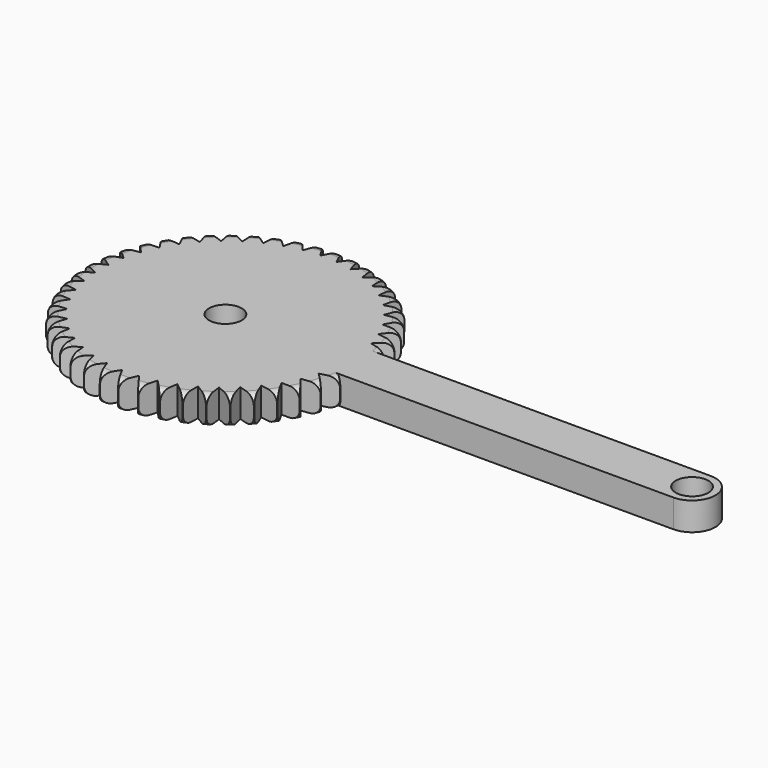
from build123d import *

# Parameters (mm, degrees)
F0_R     = 15
F1_DEPTH = 3
F2_R     = 1
F4_DEPTH = 3
F5_R     = 1.75
F6_DEPTH = 3
F7_R     = 1.75
F8_DEPTH = 3.0010001


with BuildPart() as f1:
    # F0 (on Top) → F1 (new body)
    with BuildSketch(Plane.XY):
        Circle(F0_R)
    extrude(amount=F1_DEPTH)

    # F2
    f2_edges = [f1.edges().sort_by_distance(p)[0] for p in [
        (-15, 0, 3),
        (-15, 0, 0),
    ]]
    fillet(f2_edges, radius=F2_R)

    # F3 (on face) → F4 (cut)
    with BuildSketch(Plane.XY.offset(3)):
        Polygon((15, -1), (15, 1), (13.2679491924, 0), align=None)
        Polygon((14.7328753669, 2.9903818188), (13.1495657586, 1.7684445519), (14.9994492777, 1.0082268425), align=None)
        Polygon((14.2028422239, 4.9274002031), (12.7965280123, 3.5053311689), (14.7312330277, 2.998461853), align=None)
        Polygon((13.419359025, 6.7764890141), (12.2151359204, 5.1796650681), (14.2001375753, 4.9351892408), align=None)
        Polygon((12.3964070463, 8.5046512181), (11.4157644387, 6.7615677215), (13.4156403315, 6.7838480596), align=None)
        Polygon((11.1522408902, 10.0810477197), (10.4126783701, 8.2228100387), (12.3917406681, 8.5114489491), align=None)
        Polygon((9.7090627312, 11.4775476858), (9.2237778094, 9.537316116), (11.146710099, 10.0871628305), align=None)
        Polygon((8.0926261178, 12.6692305416), (7.870278715, 10.6816285612), (9.7027662241, 11.4828710522), align=None)
        Polygon((6.3317763996, 13.6348306783), (6.3763343106, 11.6353270918), (8.085676256, 12.6736671679), align=None)
        Polygon((4.4579359815, 14.3571169385), (4.7686040694, 12.3813929347), (6.3242972036, 13.6383013928), align=None)
        Polygon((2.5045435902, 14.8232001067), (3.0757779755, 12.9065125273), (4.4500609178, 14.3595598062), align=None)
        Polygon((0.5064575593, 15.024762918), (1.3280645508, 13.2013150982), (2.4964131894, 14.8245715347), align=None)
        Polygon((-1.5006662188, 14.9582084789), (-0.4433482172, 13.2605398884), (0.4982169086, 15.025038433), align=None)
        Polygon((-3.4810105727, 14.6247244553), (-2.2068494258, 13.0831300301), (-1.5088700648, 14.9573831644), align=None)
        Polygon((-5.3992362105, 14.0302618772), (-3.9309693541, 12.6722514065), (-3.4890312161, 14.622813039), align=None)
        Polygon((-7.2211123502, 13.1854289436), (-5.5849410412, 12.0352361563), (-5.4069305227, 14.0272984684), align=None)
        Polygon((-8.9141275689, 12.1053017181), (-7.1392493231, 11.1834518319), (-7.228343026, 13.1814664244), align=None)
        Polygon((-10.4480699699, 10.8091550967), (-8.5661575317, 10.1320985445), (-8.9207655768, 12.1004107998), align=None)
        Polygon((-11.7955663149, 9.3201188464), (-9.8402024562, 8.8999377185), (-10.4539968546, 10.8034230577), align=None)
        Polygon((-12.9325704995, 7.6647648546), (-10.9386487347, 7.5089572932), (-11.8006763108, 9.3136479753), align=None)
        Polygon((-13.8387926571, 5.8726329524), (-11.8418945675, 5.983979347), (-12.9367724187, 7.6576706241), align=None)
        Polygon((-14.498061232, 3.975703776), (-12.5338215111, 4.3522171477), (-13.8420115163, 5.8650419592), align=None)
        Polygon((-14.8986115607, 2.0078280715), (-13.002082113, 2.6427895302), (-14.5002395904, 3.9677514816), align=None)
        Polygon((-15.0332958131, 0.0041226276), (-13.2383202515, 0.886201271), (-14.8997105456, 1.9996563848), align=None)
        Polygon((-14.8997105456, -1.9996563848), (-13.2383202515, -0.886201271), (-15.0332958131, -0.0041226276), align=None)
        Polygon((-14.5002395904, -3.9677514816), (-13.002082113, -2.6427895302), (-14.8986115607, -2.0078280715), align=None)
        Polygon((-13.8420115163, -5.8650419592), (-12.5338215111, -4.3522171477), (-14.498061232, -3.975703776), align=None)
        Polygon((-12.9367724187, -7.6576706241), (-11.8418945675, -5.983979347), (-13.8387926571, -5.8726329524), align=None)
        Polygon((-11.8006763108, -9.3136479753), (-10.9386487347, -7.5089572932), (-12.9325704995, -7.6647648546), align=None)
        Polygon((-10.4539968546, -10.8034230577), (-9.8402024562, -8.8999377185), (-11.7955663149, -9.3201188464), align=None)
        Polygon((-8.9207655768, -12.1004107998), (-8.5661575317, -10.1320985445), (-10.4480699699, -10.8091550967), align=None)
        Polygon((-7.228343026, -13.1814664244), (-7.1392493231, -11.1834518319), (-8.9141275689, -12.1053017181), align=None)
        Polygon((-5.4069305227, -14.0272984684), (-5.5849410412, -12.0352361563), (-7.2211123502, -13.1854289436), align=None)
        Polygon((-3.4890312161, -14.622813039), (-3.9309693541, -12.6722514065), (-5.3992362105, -14.0302618772), align=None)
        Polygon((-1.5088700648, -14.9573831644), (-2.2068494258, -13.0831300301), (-3.4810105727, -14.6247244553), align=None)
        Polygon((0.4982169086, -15.025038433), (-0.4433482172, -13.2605398884), (-1.5006662188, -14.9582084789), align=None)
        Polygon((2.4964131894, -14.8245715347), (1.3280645508, -13.2013150982), (0.5064575593, -15.024762918), align=None)
        Polygon((4.4500609178, -14.3595598062), (3.0757779755, -12.9065125273), (2.5045435902, -14.8232001067), align=None)
        Polygon((6.3242972036, -13.6383013928), (4.7686040694, -12.3813929347), (4.4579359815, -14.3571169385), align=None)
        Polygon((8.085676256, -12.6736671679), (6.3763343106, -11.6353270918), (6.3317763996, -13.6348306783), align=None)
        Polygon((9.7027662241, -11.4828710522), (7.870278715, -10.6816285612), (8.0926261178, -12.6692305416), align=None)
        Polygon((11.146710099, -10.0871628305), (9.2237778094, -9.537316116), (9.7090627312, -11.4775476858), align=None)
        Polygon((12.3917406681, -8.5114489491), (10.4126783701, -8.2228100387), (11.1522408902, -10.0810477197), align=None)
        Polygon((13.4156403315, -6.7838480596), (11.4157644387, -6.7615677215), (12.3964070463, -8.5046512181), align=None)
        Polygon((14.2001375753, -4.9351892408), (12.2151359204, -5.1796650681), (13.419359025, -6.7764890141), align=None)
        Polygon((14.7312330277, -2.998461853), (12.7965280123, -3.5053311689), (14.2028422239, -4.9274002031), align=None)
        Polygon((14.9994492777, -1.0082268425), (13.1495657586, -1.7684445519), (14.7328753669, -2.9903818188), align=None)
    extrude(amount=-F4_DEPTH, mode=Mode.SUBTRACT)

    # F5 (on face) → F6 (join)
    with BuildSketch(Plane.XY.offset(3)):
        with BuildLine():
            Line((0, 2.5), (0, -2.5))
            Line((0, -2.5), (50, -2.5))
            ThreePointArc((50, -2.5), (52.5, 0), (50, 2.5))
            Line((50, 2.5), (0, 2.5))
        make_face()
        with Locations((50, 0)):
            Circle(F5_R, mode=Mode.SUBTRACT)
    extrude(amount=-F6_DEPTH)

    # F7 (on face) → F8 (cut, through all)
    with BuildSketch(Plane.XY.offset(3)):
        Circle(F7_R)
    extrude(amount=-F8_DEPTH, mode=Mode.SUBTRACT)


solid = f1.part
